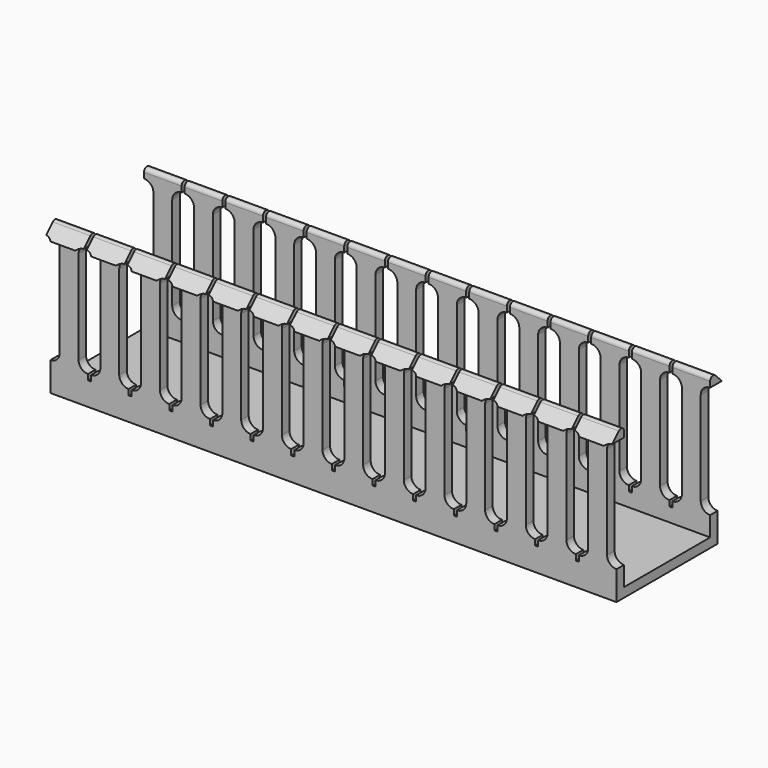
from build123d import *

# Parameters (mm, degrees)
F1_DEPTH  = 6.35
F2_W      = 0.508
F2_H      = 7.874
F3_DEPTH  = 25.4
F4_DEPTH  = 21.336
F5_W      = 36.322
F5_H      = 4.699
F6_DEPTH  = 12.7
F11_W     = 0.508
F11_H     = 7.874
F12_DEPTH = 25.4
F13_W     = 27.432
F13_H     = 50.8
F14_DEPTH = 25.4


with BuildPart() as f1:
    # F0 (on Right) → F1 (new body, symmetric)
    with BuildSketch(Plane.YZ):
        with BuildLine():
            Line((18.161, 49.53), (18.161, 7.874))
            Line((18.161, 7.874), (21.336, 7.874))
            Line((21.336, 7.874), (21.336, 46.7794512242))
            Line((21.336, 46.7794512242), (23.9776, 46.7794512242))
            Line((23.9776, 46.7794512242), (20.3290256121, 50.4280256121))
            ThreePointArc((20.3290256121, 50.4280256121), (18.9449920409, 50.7033270063), (18.161, 49.53))
        make_face()
        Polygon((21.336, 7.874), (18.161, 7.874), (18.161, 3.175), (0, 3.175), (-18.161, 3.175), (-18.161, 7.874), (-21.336, 7.874), (-21.336, 0), (0, 0), (21.336, 0), align=None)
        with BuildLine():
            Line((-21.336, 7.874), (-18.161, 7.874))
            Line((-18.161, 7.874), (-18.161, 49.53))
            ThreePointArc((-18.161, 49.53), (-18.9449920409, 50.7033270063), (-20.3290256121, 50.4280256121))
            Line((-20.3290256121, 50.4280256121), (-23.9776, 46.7794512242))
            Line((-23.9776, 46.7794512242), (-21.336, 46.7794512242))
            Line((-21.336, 46.7794512242), (-21.336, 7.874))
        make_face()
    extrude(amount=F1_DEPTH, both=True)

    # F2 (on Front) → F3 (cut, symmetric)
    with BuildSketch(Plane.XZ):
        with BuildLine():
            Line((-3.175, 12.954), (-3.175, 44.45))
            ThreePointArc((-3.175, 44.45), (-6.35, 47.625), (-9.525, 44.45))
            Line((-9.525, 44.45), (-9.525, 12.954))
            ThreePointArc((-9.525, 12.954), (-6.35, 9.779), (-3.175, 12.954))
        make_face()
        with BuildLine():
            ThreePointArc((9.525, 44.45), (6.35, 47.625), (3.175, 44.45))
            Line((3.175, 44.45), (3.175, 12.954))
            ThreePointArc((3.175, 12.954), (6.35, 9.779), (9.525, 12.954))
            Line((9.525, 12.954), (9.525, 44.45))
        make_face()
        with Locations((-6.604, 3.937)):
            Rectangle(F2_W, F2_H)
        with Locations((6.604, 3.937)):
            Rectangle(F2_W, F2_H)
    extrude(amount=F3_DEPTH, both=True, mode=Mode.SUBTRACT)

    # F2 (on Front) → F4 (join, symmetric)
    with BuildSketch(Plane.XZ):
        with Locations((-6.604, 3.937)):
            Rectangle(F2_W, F2_H)
        with Locations((6.604, 3.937)):
            Rectangle(F2_W, F2_H)
    extrude(amount=F4_DEPTH, both=True)

    # F5 (on Right) → F6 (cut, symmetric)
    with BuildSketch(Plane.YZ):
        with Locations((0, 5.5245)):
            Rectangle(F5_W, F5_H)
    extrude(amount=F6_DEPTH, both=True, mode=Mode.SUBTRACT)

    # F7: F1 across face


with BuildPart() as f1_1:
    add(f1.part)
    add(f1.part.mirror(Plane(origin=(-6.858, 0, 2.2980804878), x_dir=(0, -1, 0), z_dir=(-1, 0, 0))))

    # F8: F1 across face


with BuildPart() as f1_2:
    add(f1_1.part)
    add(f1_1.part.mirror(Plane(origin=(-20.574, 0, 2.2980804878), x_dir=(0, -1, 0), z_dir=(-1, 0, 0))))

    # F9: F1 across face


with BuildPart() as f1_3:
    add(f1_2.part)
    add(f1_2.part.mirror(Plane(origin=(-48.006, 0, 2.2980804878), x_dir=(0, -1, 0), z_dir=(-1, 0, 0))))

    # F10: F1 across face


with BuildPart() as f1_4:
    add(f1_3.part)
    add(f1_3.part.mirror(Plane(origin=(-102.87, 0, 2.2980804878), x_dir=(0, -1, 0), z_dir=(-1, 0, 0))))

    # F11 (on Front) → F12 (cut, symmetric)
    with BuildSketch(Plane.XZ):
        with Locations((6.604, 3.937)):
            Rectangle(F11_W, F11_H)
        with Locations((-212.344, 3.937)):
            Rectangle(F11_W, F11_H)
    extrude(amount=F12_DEPTH, both=True, mode=Mode.SUBTRACT)

    # F13 (on Front) → F14 (cut, symmetric)
    with BuildSketch(Plane.XZ):
        with Locations((-198.374, 25.4)):
            Rectangle(F13_W, F13_H)
    extrude(amount=F14_DEPTH, both=True, mode=Mode.SUBTRACT)


solid = f1_4.part
